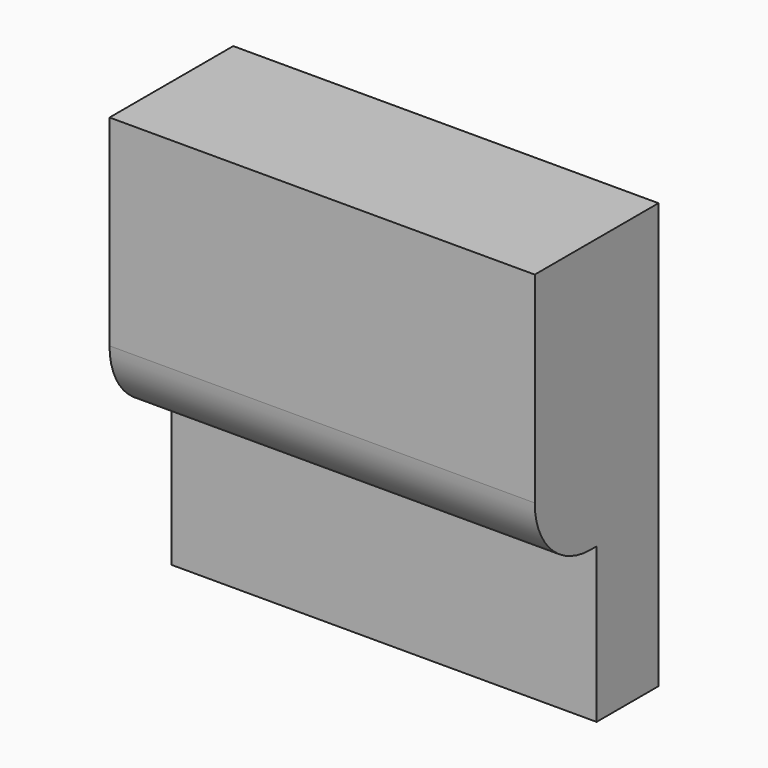
from build123d import *

# Parameters (mm, degrees)
BOX017_W     = 5.5
BOX017_H     = 1
BOX017_DEPTH = 2
BOX016_W     = 5.5
BOX016_H     = 2
BOX016_DEPTH = 5.5
FILLET002_R  = 0.9


with BuildPart() as button_1_cut:
    # Box017 → Box017 (new body)
    with BuildSketch(Plane(origin=(5, 24, -15), x_dir=(1, 0, 0), z_dir=(0, 0, 1))):
        with Locations((2.75, 0.5)):
            Rectangle(BOX017_W, BOX017_H)
    extrude(amount=BOX017_DEPTH)


with BuildPart() as fillet002:
    # Box016 → Box016 (new body)
    with BuildSketch(Plane(origin=(5, 24, -15), x_dir=(1, 0, 0), z_dir=(0, 0, 1))):
        with Locations((2.75, 1)):
            Rectangle(BOX016_W, BOX016_H)
    extrude(amount=BOX016_DEPTH)

    # Cut: cut Button 1 Cut
    add(button_1_cut.part, mode=Mode.SUBTRACT)

    # Fillet002
    fillet002_edges = [fillet002.edges().sort_by_distance(p)[0] for p in [
        (7.75, 24, -13),
    ]]
    fillet(fillet002_edges, radius=FILLET002_R)


solid = fillet002.part
